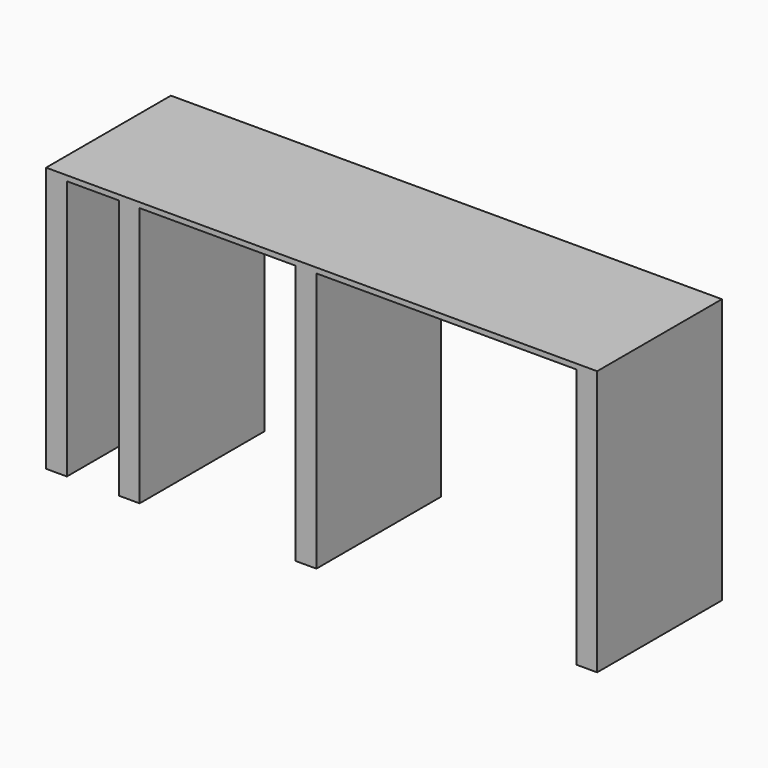
from build123d import *

# Parameters (mm, degrees)
F0_W     = 2
F0_H     = 15
F1_DEPTH = 25
F2_W     = 53
F2_H     = 15
F3_DEPTH = 0.5


with BuildPart() as f1:
    # F0 (on Top) → F1 (new body)
    with BuildSketch(Plane.XY):
        with Locations((-47.719786, 0)):
            Rectangle(F0_W, F0_H)
        with Locations((-40.719786, 0)):
            Rectangle(F0_W, F0_H)
        with Locations((-23.719786, 0)):
            Rectangle(F0_W, F0_H)
        with Locations((3.280214, 0)):
            Rectangle(F0_W, F0_H)
    extrude(amount=F1_DEPTH)

    # F2 (on face) → F3 (join)
    with BuildSketch(Plane.XY.offset(25)):
        with Locations((-22.219786, 0)):
            Rectangle(F2_W, F2_H)
    extrude(amount=F3_DEPTH)


solid = f1.part
